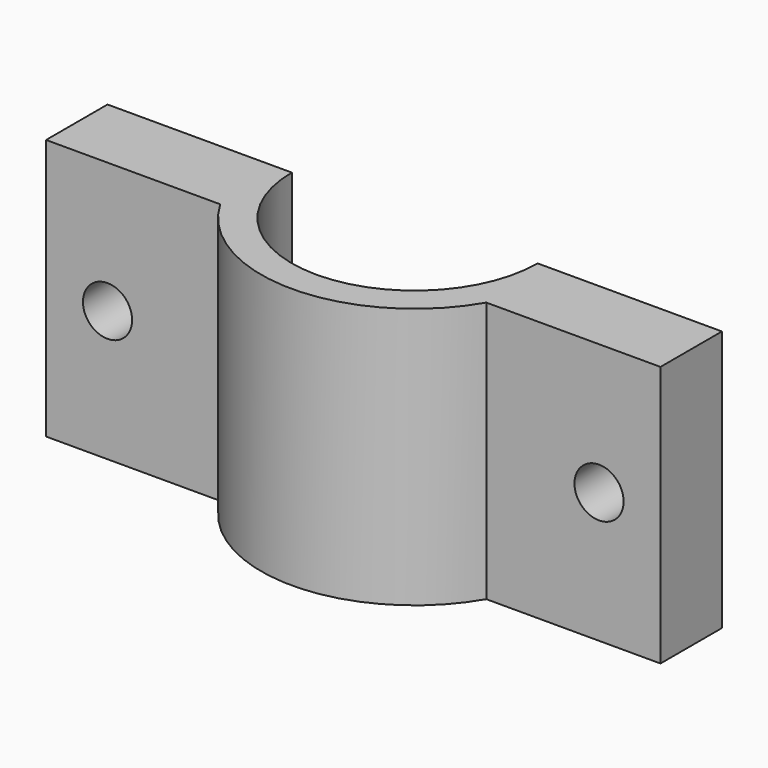
from build123d import *

# Parameters (mm, degrees)
F1_DEPTH = 17
F2_R     = 1.6
F3_DEPTH = 25
F5_DEPTH = 25


with BuildPart() as f1:
    # F0 (on Top) → F1 (new body)
    with BuildSketch(Plane.XY):
        with BuildLine():
            Line((-8, 5), (-20, 5))
            Line((-20, 5), (-20, -5))
            Line((-20, -5), (20, -5))
            Line((20, -5), (20, 5))
            Line((20, 5), (8, 5))
            ThreePointArc((8, 5), (0, -3), (-8, 5))
        make_face()
    extrude(amount=F1_DEPTH)

    # F2 (on face) → F3 (cut)
    with BuildSketch(Plane.XZ.offset(5)):
        with Locations((-16, 8.5)):
            Circle(F2_R)
        with Locations((16, 8.5)):
            Circle(F2_R)
    extrude(amount=-F3_DEPTH, mode=Mode.SUBTRACT)

    # F4 (on face) → F5 (cut)
    with BuildSketch(Plane.XY.offset(17)):
        with BuildLine():
            ThreePointArc((8.660254, 0), (0, -5), (-8.660254, 0))
            Line((-8.660254, 0), (-20, 0))
            Line((-20, 0), (-20, -5.929414))
            Line((-20, -5.929414), (20, -5.929414))
            Line((20, -5.929414), (20, 0))
            Line((20, 0), (8.660254, 0))
        make_face()
    extrude(amount=-F5_DEPTH, mode=Mode.SUBTRACT)


solid = f1.part
